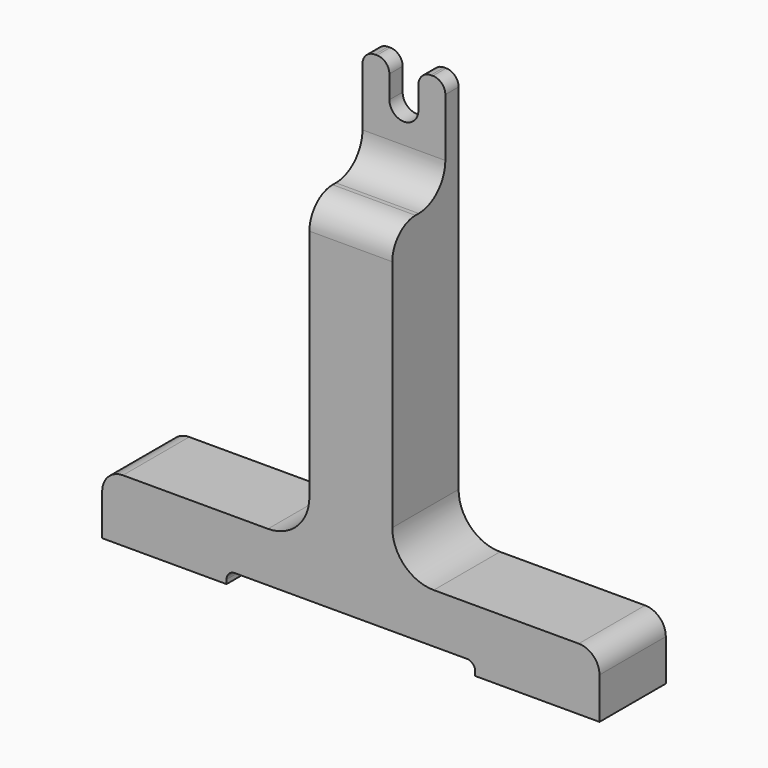
from build123d import *

# Parameters (mm, degrees)
F1_DEPTH = 20
F3_DEPTH = 25
F4_W     = 25
F4_H     = 15
F5_DEPTH = 2


with BuildPart() as f1:
    # F0 (on Front) → F1 (new body)
    with BuildSketch(Plane.XZ):
        with BuildLine():
            ThreePointArc((3.5, 105), (0, 101.5), (-3.5, 105))
            Line((-3.5, 105), (-3.5, 110.5))
            ThreePointArc((-3.5, 110.5), (-4.37868, 112.62132), (-6.5, 113.5))
            Line((-6.5, 113.5), (-7, 113.5))
            ThreePointArc((-7, 113.5), (-9.12132, 112.62132), (-10, 110.5))
            Line((-10, 110.5), (-10, 25))
            ThreePointArc((-10, 25), (-12.928932, 17.928932), (-20, 15))
            Line((-20, 15), (-55, 15))
            ThreePointArc((-55, 15), (-58.535534, 13.535534), (-60, 10))
            Line((-60, 10), (-60, 0))
            Line((-60, 0), (-30, 0))
            Line((-30, 0), (-30, 1))
            ThreePointArc((-30, 1), (-29.414214, 2.414214), (-28, 3))
            Line((-28, 3), (28, 3))
            ThreePointArc((28, 3), (29.414214, 2.414214), (30, 1))
            Line((30, 1), (30, 0))
            Line((30, 0), (60, 0))
            Line((60, 0), (60, 10))
            ThreePointArc((60, 10), (58.535534, 13.535534), (55, 15))
            Line((55, 15), (20, 15))
            ThreePointArc((20, 15), (12.928932, 17.928932), (10, 25))
            Line((10, 25), (10, 110.5))
            ThreePointArc((10, 110.5), (9.12132, 112.62132), (7, 113.5))
            Line((7, 113.5), (6.5, 113.5))
            ThreePointArc((6.5, 113.5), (4.37868, 112.62132), (3.5, 110.5))
            Line((3.5, 110.5), (3.5, 105))
        make_face()
    extrude(amount=F1_DEPTH)

    # F2 (on face) → F3 (cut)
    with BuildSketch(Plane.YZ.offset(10)):
        Polygon((-4, 110.5), (-4, 116.603597), (-20, 116.603597), (-25.165081, 116.603597), (-25.165081, 79.442367), (-20, 79.442367), (-20, 81.5), (-20, 110.5), align=None)
        with BuildLine():
            Line((-4, 96.5), (-4, 110.5))
            Line((-4, 110.5), (-20, 110.5))
            Line((-20, 110.5), (-20, 81.5))
            ThreePointArc((-20, 81.5), (-17.949747, 86.449747), (-13, 88.5))
            Line((-13, 88.5), (-12, 88.5))
            ThreePointArc((-12, 88.5), (-6.343146, 90.843146), (-4, 96.5))
        make_face()
    extrude(amount=-F3_DEPTH, mode=Mode.SUBTRACT)

    # F4 (on face) → F5 (cut)
    with BuildSketch(Plane(origin=(0, 0, 0), x_dir=(1, 0, 0), z_dir=(0, 0, -1))):
        with Locations((-45, 10)):
            Rectangle(F4_W, F4_H)
        with Locations((45, 10)):
            Rectangle(F4_W, F4_H)
    extrude(amount=-F5_DEPTH, mode=Mode.SUBTRACT)


solid = f1.part
